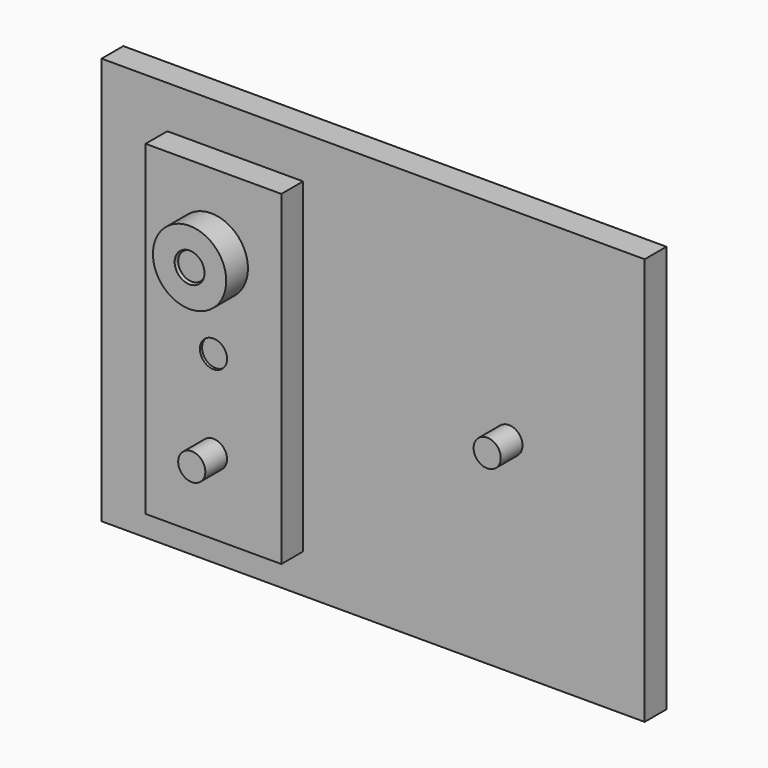
from build123d import *

# Parameters (mm, degrees)
F0_W      = 200
F0_H      = 150
F0_R      = 5
F1_DEPTH  = 10
F2_DEPTH  = 20
F5_W      = 50
F5_H      = 120
F5_R      = 5
F6_DEPTH  = 10
F9_R      = 5
F10_DEPTH = 5
F8_R      = 13.5
F8_R_2    = 5.5
F11_DEPTH = 10
F12_R     = 5
F13_DEPTH = 10


with BuildPart() as f1:
    # F0 (on Front) → F1 (new body)
    with BuildSketch(Plane.XZ):
        Rectangle(F0_W, F0_H)
        with Locations((-50, -38)):
            Circle(F0_R, mode=Mode.SUBTRACT)
        with Locations((-50, 0)):
            Circle(F0_R, mode=Mode.SUBTRACT)
        with Locations((-50, 38)):
            Circle(F0_R, mode=Mode.SUBTRACT)
        with Locations((50, 0)):
            Circle(F0_R, mode=Mode.SUBTRACT)
        with Locations((-50, 38)):
            Circle(F0_R)
        with Locations((-50, -38)):
            Circle(F0_R)
    extrude(amount=F1_DEPTH)

    # F0 (on Front) → F2 (join)
    with BuildSketch(Plane.XZ):
        with Locations((-50, 0)):
            Circle(F0_R)
        with Locations((50, 0)):
            Circle(F0_R)
    extrude(amount=F2_DEPTH)

    # F9 (on face) → F10 (cut)
    with BuildSketch(Plane(origin=(0, 0, 0), x_dir=(-1, 0, 0), z_dir=(0, 1, 0))):
        with Locations((-50, 0)):
            Circle(F9_R)
    extrude(amount=-F10_DEPTH, mode=Mode.SUBTRACT)


with BuildPart() as f6:
    # F5 (on offset) → F6 (new body)
    with BuildSketch(Plane.XZ.offset(11)):
        with Locations((-50, 0)):
            Rectangle(F5_W, F5_H)
        with Locations((-50, -38)):
            Circle(F5_R, mode=Mode.SUBTRACT)
        with Locations((-50, 0)):
            Circle(F5_R, mode=Mode.SUBTRACT)
        with Locations((-50, 38)):
            Circle(F5_R, mode=Mode.SUBTRACT)
        with Locations((-50, 38)):
            Circle(F5_R)
        with Locations((-50, -38)):
            Circle(F5_R)
    extrude(amount=F6_DEPTH)

    # F12 (on face) → F13 (join)
    with BuildSketch(Plane.XZ.offset(21)):
        with Locations((-50, 32.5)):
            Circle(F12_R)
        with Locations((-50, -32.5)):
            Circle(F12_R)
    extrude(amount=F13_DEPTH)


with BuildPart() as f11:
    # F8 (on offset) → F11 (new body)
    with BuildSketch(Plane.XZ.offset(22)):
        with Locations((-50, 32.5)):
            Circle(F8_R)
        with Locations((-50, 32.5)):
            Circle(F8_R_2, mode=Mode.SUBTRACT)
    extrude(amount=F11_DEPTH)


solid = Compound([f1.part, f6.part, f11.part])
